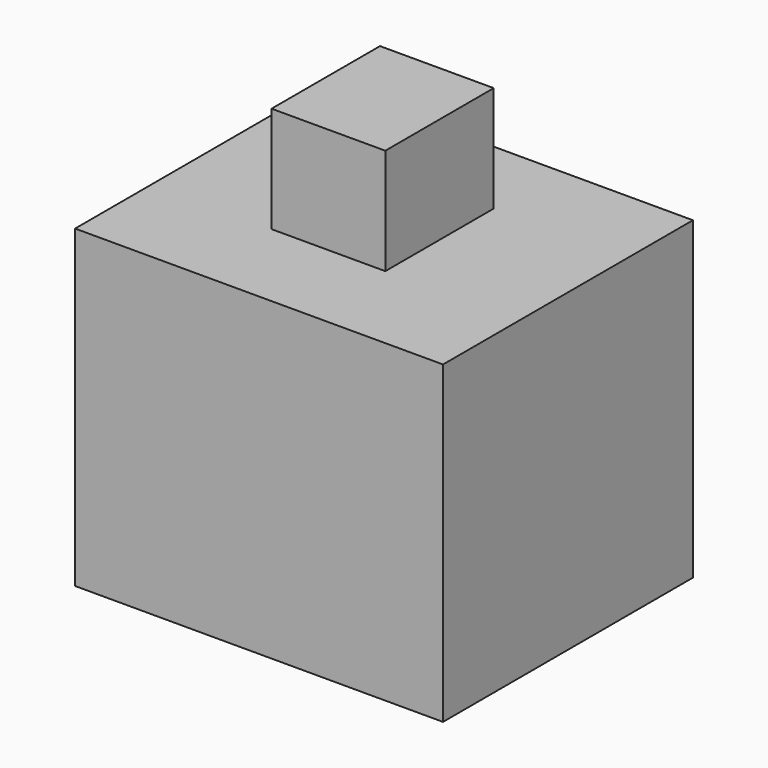
from build123d import *

# Parameters (mm, degrees)
F0_W     = 96.9264
F0_H     = 82.9056
F1_DEPTH = 41.148
F2_W     = 29.972
F2_H     = 35.7124
F3_DEPTH = 27.94


with BuildPart() as f1:
    # F0 (on Front) → F1 (new body, symmetric)
    with BuildSketch(Plane.XZ):
        with Locations((0.129872, 2.570123)):
            Rectangle(F0_W, F0_H)
    extrude(amount=F1_DEPTH, both=True)

    # F2 (on face) → F3 (join)
    with BuildSketch(Plane.XY.offset(44.022923)):
        with Locations((-1.627858, 1.748581)):
            Rectangle(F2_W, F2_H)
    extrude(amount=F3_DEPTH)


solid = f1.part
